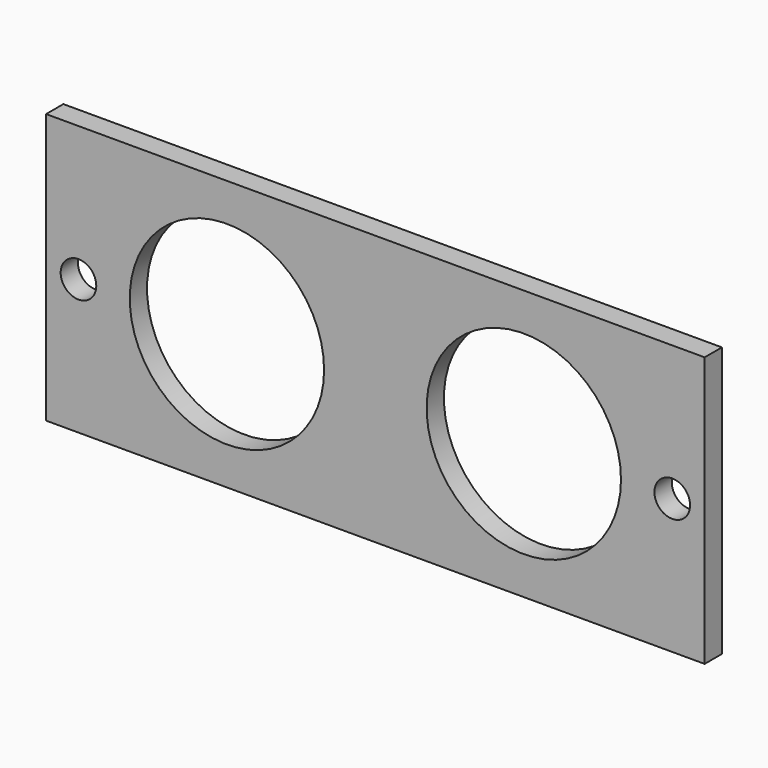
from build123d import *

# Parameters (mm, degrees)
F0_W     = 61
F0_H     = 25
F0_R     = 1.65
F0_R_2   = 9
F1_DEPTH = 2


with BuildPart() as f1:
    # F0 (on Front) → F1 (new body)
    with BuildSketch(Plane.XZ):
        Rectangle(F0_W, F0_H)
        with Locations((-27.5, 0)):
            Circle(F0_R, mode=Mode.SUBTRACT)
        with Locations((-13.75, 0)):
            Circle(F0_R_2, mode=Mode.SUBTRACT)
        with Locations((13.75, 0)):
            Circle(F0_R_2, mode=Mode.SUBTRACT)
        with Locations((27.5, 0)):
            Circle(F0_R, mode=Mode.SUBTRACT)
    extrude(amount=F1_DEPTH)


solid = f1.part
